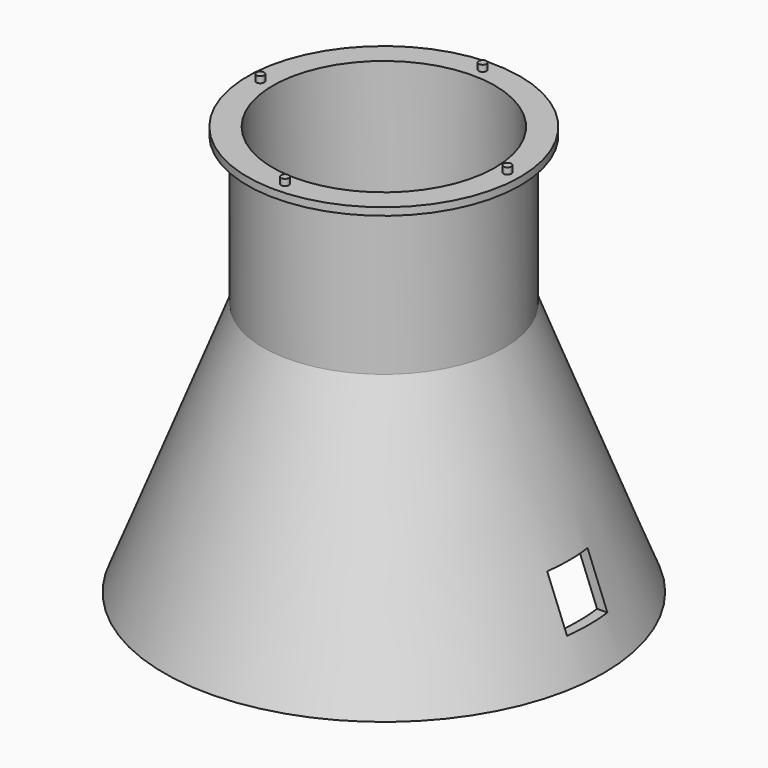
from build123d import *

# Parameters (mm, degrees)
F2_W     = 8
F2_H     = 16
F3_DEPTH = 77.17437
F4_R     = 1.25
F5_DEPTH = 2


with BuildPart() as f1:
    # F0 (on Front) → F1 (revolve)
    with BuildSketch(Plane.XZ):
        Polygon((43.25, 0), (35.25, 0), (35.25, -49.948681), (66.444077, -130), (69.693929, -130), (38.25, -49.3075), (38.25, -2.400862), (43.25, -2.400862), align=None)
    revolve(axis=Axis((0, 0, -40), (0, 0, -1)))

    # F2 (on Right) → F3 (cut)
    with BuildSketch(Plane.YZ):
        with Locations((-4, -110)):
            Rectangle(F2_W, F2_H)
        with Locations((4, -110)):
            Rectangle(F2_W, F2_H)
    extrude(amount=F3_DEPTH, mode=Mode.SUBTRACT)

    # F4 (on face) → F5 (join)
    with BuildSketch(Plane.XY):
        with Locations((0, 39.2)):
            Circle(F4_R)
        with Locations((-39.2, 0)):
            Circle(F4_R)
        with Locations((0, -39.2)):
            Circle(F4_R)
        with Locations((39.2, 0)):
            Circle(F4_R)
    extrude(amount=F5_DEPTH)


solid = f1.part
